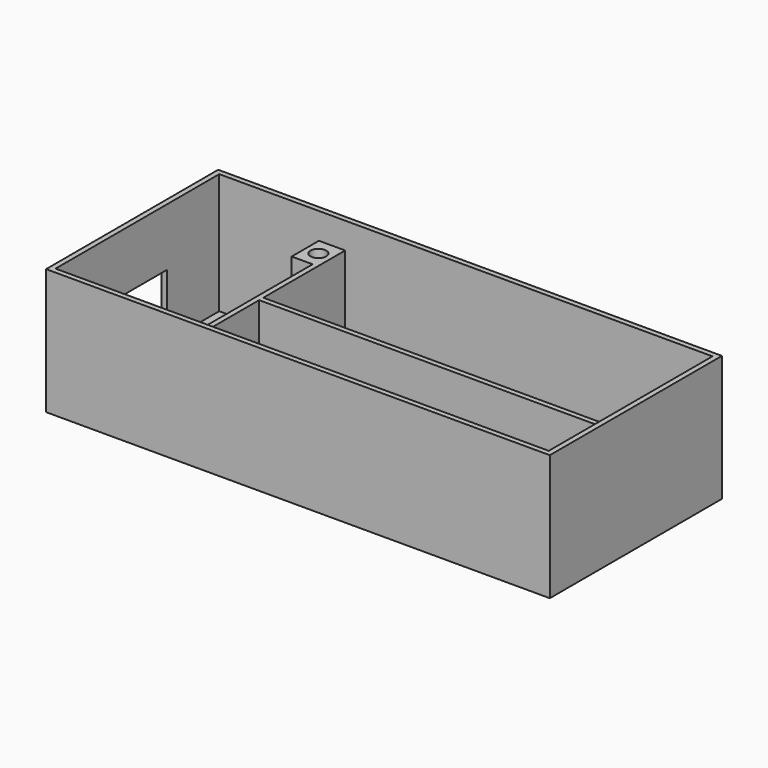
from build123d import *

# Parameters (mm, degrees)
F0_W      = 96
F0_H      = 41
F1_DEPTH  = 24
F2_T      = -1
F3_W      = 69
F3_H      = 19
F4_DEPTH  = 1
F6_W      = 27
F6_H      = 19
F7_DEPTH  = 1
F8_W      = 14
F8_H      = 7
F9_DEPTH  = 2
F10_W     = 3
F10_H     = 4
F11_DEPTH = 1
F12_W     = 5
F12_H     = 6.5
F12_H_2   = 5.5
F13_DEPTH = 18
F14_R     = 1.5
F15_DEPTH = 10
F16_DEPTH = 10


with BuildPart() as f1:
    # F0 (on Top) → F1 (new body)
    with BuildSketch(Plane.XY):
        Rectangle(F0_W, F0_H)
    extrude(amount=F1_DEPTH)

    # F2
    f2_openings = [f1.faces().sort_by_distance(p)[0] for p in [
        (0, 0, 24),
    ]]
    offset(amount=F2_T, openings=f2_openings)

    # F3 (on Front) → F4 (join)
    with BuildSketch(Plane.XZ):
        with Locations((11.5, 9.5)):
            Rectangle(F3_W, F3_H)
    extrude(amount=F4_DEPTH)

    # F6 (on offset) → F7 (join)
    with BuildSketch(Plane.YZ.offset(-24)):
        with Locations((-0.5, 9.5)):
            Rectangle(F6_W, F6_H)
    extrude(amount=F7_DEPTH)

    # F8 (on face) → F9 (cut)
    with BuildSketch(Plane(origin=(-48, 0, 0), x_dir=(0, -1, 0), z_dir=(-1, 0, 0))):
        with Locations((0, 9.5)):
            Rectangle(F8_W, F8_H)
    extrude(amount=-F9_DEPTH, mode=Mode.SUBTRACT)

    # F10 (on face) → F11 (cut)
    with BuildSketch(Plane(origin=(-24, 0, 0), x_dir=(0, -1, 0), z_dir=(-1, 0, 0))):
        with Locations((-3.5, 9)):
            Rectangle(F10_W, F10_H)
        with Locations((3.5, 9)):
            Rectangle(F10_W, F10_H)
    extrude(amount=-F11_DEPTH, mode=Mode.SUBTRACT)

    # F12 (on face) → F13 (join)
    with BuildSketch(Plane.XY.offset(1)):
        with Locations((-25.5, 16.25)):
            Rectangle(F12_W, F12_H)
        with Locations((-25.5, -16.75)):
            Rectangle(F12_W, F12_H_2)
    extrude(amount=F13_DEPTH)

    # F14 (on face) → F15 (cut)
    with BuildSketch(Plane.XY.offset(19)):
        with Locations((-25.5, 16.25)):
            Circle(F14_R)
    extrude(amount=-F15_DEPTH, mode=Mode.SUBTRACT)

    # F14 (on face) → F16 (cut)
    with BuildSketch(Plane.XY.offset(19)):
        with Locations((-25.5, 16.25)):
            Circle(F14_R)
        with Locations((-25.520032, -16.933361)):
            Circle(F14_R)
    extrude(amount=-F16_DEPTH, mode=Mode.SUBTRACT)


solid = f1.part
